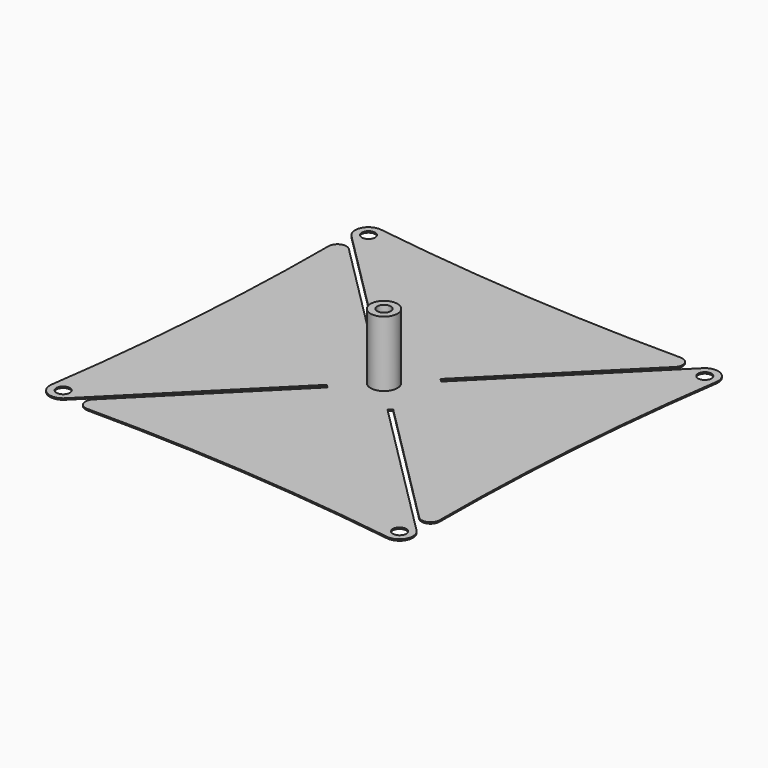
from build123d import *

# Parameters (mm, degrees)
F1_R     = 6
F1_R_2   = 3
F2_DEPTH = 30
F0_R     = 3
F3_DEPTH = 0.64


with BuildPart() as f2:
    # F1 (on Top) → F2 (new body)
    with BuildSketch(Plane.XY):
        Circle(F1_R)
        Circle(F1_R_2, mode=Mode.SUBTRACT)
    extrude(amount=F2_DEPTH)

    # F0 (on Top) → F3 (join)
    with BuildSketch(Plane.XY):
        with BuildLine():
            Line((68.928932, 80), (68.846523, 80))
            ThreePointArc((68.846523, 80), (-2.503148, 82.548636), (-73.489132, 90.181551))
            ThreePointArc((-73.489132, 90.181551), (-79.708469, 86.9284), (-78.585786, 80))
            Line((-78.585786, 80), (-13.435029, 14.849242))
            Line((-13.435029, 14.849242), (-14.849242, 13.435029))
            Line((-14.849242, 13.435029), (-73.171573, 71.757359))
            ThreePointArc((-73.171573, 71.757359), (-77.530734, 72.62445), (-80, 68.928932))
            Line((-80, 68.928932), (-80, 68.846523))
            ThreePointArc((-80, 68.846523), (-82.548636, -2.503148), (-90.181551, -73.489132))
            ThreePointArc((-90.181551, -73.489132), (-86.9284, -79.708469), (-80, -78.585786))
            Line((-80, -78.585786), (-14.849242, -13.435029))
            Line((-14.849242, -13.435029), (-13.435029, -14.849242))
            Line((-13.435029, -14.849242), (-71.757359, -73.171573))
            ThreePointArc((-71.757359, -73.171573), (-72.62445, -77.530734), (-68.928932, -80))
            Line((-68.928932, -80), (-68.846523, -80))
            ThreePointArc((-68.846523, -80), (2.503148, -82.548636), (73.489132, -90.181551))
            ThreePointArc((73.489132, -90.181551), (79.708469, -86.9284), (78.585786, -80))
            Line((78.585786, -80), (13.435029, -14.849242))
            Line((13.435029, -14.849242), (14.849242, -13.435029))
            Line((14.849242, -13.435029), (73.171573, -71.757359))
            ThreePointArc((73.171573, -71.757359), (77.530734, -72.62445), (80, -68.928932))
            Line((80, -68.928932), (80, -68.846523))
            ThreePointArc((80, -68.846523), (82.548636, 2.503148), (90.181551, 73.489132))
            ThreePointArc((90.181551, 73.489132), (86.9284, 79.708469), (80, 78.585786))
            Line((80, 78.585786), (14.849242, 13.435029))
            Line((14.849242, 13.435029), (13.435029, 14.849242))
            Line((13.435029, 14.849242), (71.757359, 73.171573))
            ThreePointArc((71.757359, 73.171573), (72.62445, 77.530734), (68.928932, 80))
        make_face()
        with Locations((-84.242641, -74.343146)):
            Circle(F0_R, mode=Mode.SUBTRACT)
        Circle(F0_R, mode=Mode.SUBTRACT)
        with Locations((74.343146, -84.242641)):
            Circle(F0_R, mode=Mode.SUBTRACT)
        with Locations((-74.343146, 84.242641)):
            Circle(F0_R, mode=Mode.SUBTRACT)
        with Locations((84.242641, 74.343146)):
            Circle(F0_R, mode=Mode.SUBTRACT)
    extrude(amount=F3_DEPTH)


solid = f2.part
